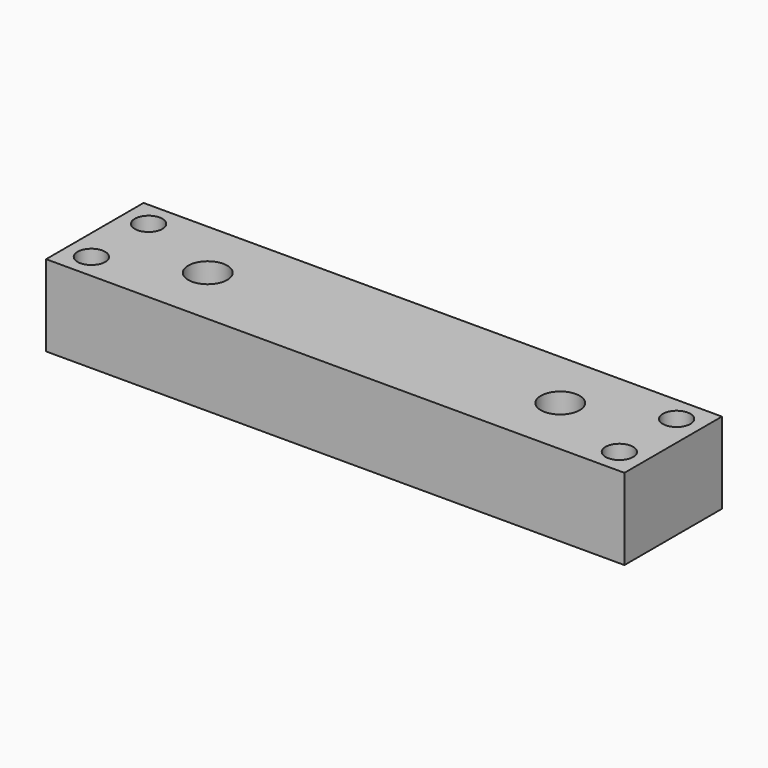
from build123d import *

# Parameters (mm, degrees)
F0_W     = 356
F0_H     = 75
F0_R     = 8.5
F0_R_2   = 12
F0_R_3   = 13
F0_R_4   = 18
F1_DEPTH = 50
F2_D     = 24


with BuildPart() as f1:
    # F0 (on Top) → F1 (new body)
    with BuildSketch(Plane.XY):
        Rectangle(F0_W, F0_H)
        with Locations((-162.5, -22)):
            Circle(F0_R, mode=Mode.SUBTRACT)
        with Locations((162.5, -22)):
            Circle(F0_R_2, mode=Mode.SUBTRACT)
        with Locations((-108.5, 0)):
            Circle(F0_R_3, mode=Mode.SUBTRACT)
        with Locations((-162.5, 22)):
            Circle(F0_R, mode=Mode.SUBTRACT)
        with Locations((108.5, 0)):
            Circle(F0_R_4, mode=Mode.SUBTRACT)
        with Locations((162.5, 22)):
            Circle(F0_R, mode=Mode.SUBTRACT)
        with Locations((162.5, -22)):
            Circle(F0_R_2)
        with Locations((162.5, -22)):
            Circle(F0_R, mode=Mode.SUBTRACT)
        with Locations((108.5, 0)):
            Circle(F0_R_4)
        with Locations((108.5, 0)):
            Circle(F0_R_3, mode=Mode.SUBTRACT)
        with Locations((-108.5, 0)):
            Circle(F0_R_3)
        with Locations((108.5, 0)):
            Circle(F0_R_3)
    extrude(amount=F1_DEPTH)

    # F2 (through all)
    with Locations(Plane(origin=(0, 0, 0), x_dir=(1, 0, 0), z_dir=(0, 0, -1))):
        with Locations((-108.5, 0), (108.5, 0)):
            Hole(F2_D / 2)


solid = f1.part
